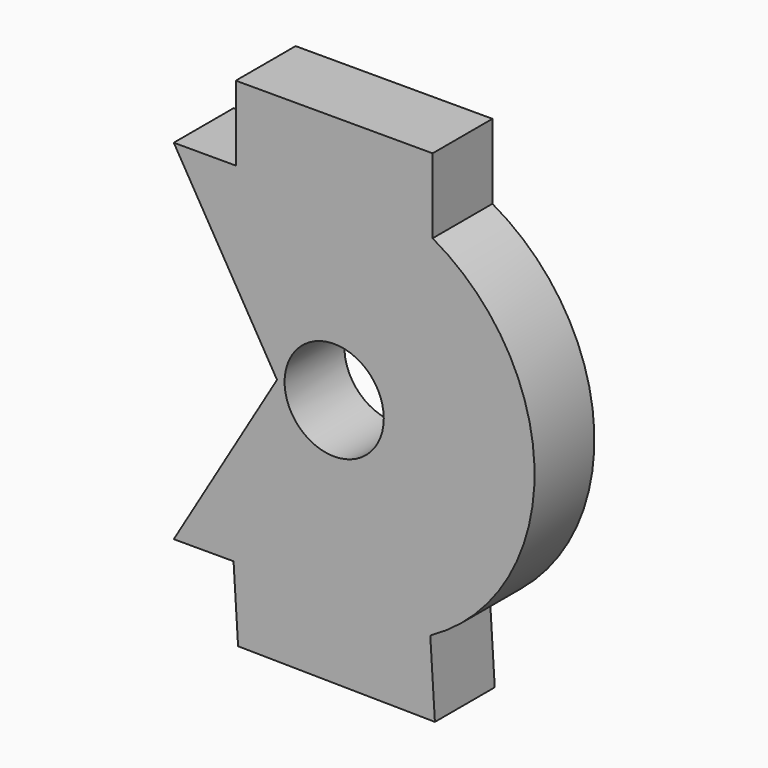
from build123d import *

# Parameters (mm, degrees)
F0_R     = 3.2
F1_DEPTH = 4.826


with BuildPart() as f1:
    # F0 (on Front) → F1 (new body)
    with BuildSketch(Plane.XZ):
        with BuildLine():
            Line((-6.199785, -15.992633), (6.499093, -16.161406))
            Line((6.499093, -16.161406), (6.199785, -11.344696))
            ThreePointArc((6.199785, -11.344696), (12.927958, -0.085905), (6.35, 11.261304))
            Line((6.35, 11.261304), (6.35, 16.087304))
            Line((6.35, 16.087304), (-6.35, 16.087304))
            Line((-6.35, 16.087304), (-6.35, 11.261304))
            Line((-6.35, 11.261304), (-10.35, 11.261304))
            Line((-10.35, 11.261304), (-3.688663, -0.043395))
            Line((-3.688663, -0.043395), (-10.35, -11.261304))
            Line((-10.35, -11.261304), (-6.493788, -11.261304))
            Line((-6.493788, -11.261304), (-6.199785, -15.992633))
        make_face()
        Circle(F0_R, mode=Mode.SUBTRACT)
        with BuildLine():
            Line((-6.199785, -15.992633), (6.499093, -16.161406))
            Line((6.499093, -16.161406), (6.199785, -11.344696))
            ThreePointArc((6.199785, -11.344696), (12.927958, -0.085905), (6.35, 11.261304))
            Line((6.35, 11.261304), (6.35, 16.087304))
            Line((6.35, 16.087304), (-6.35, 16.087304))
            Line((-6.35, 16.087304), (-6.35, 11.261304))
            Line((-6.35, 11.261304), (-10.35, 11.261304))
            Line((-10.35, 11.261304), (-3.688663, -0.043395))
            Line((-3.688663, -0.043395), (-10.35, -11.261304))
            Line((-10.35, -11.261304), (-6.493788, -11.261304))
            Line((-6.493788, -11.261304), (-6.199785, -15.992633))
        make_face()
        Circle(F0_R, mode=Mode.SUBTRACT)
    extrude(amount=F1_DEPTH)


solid = f1.part
